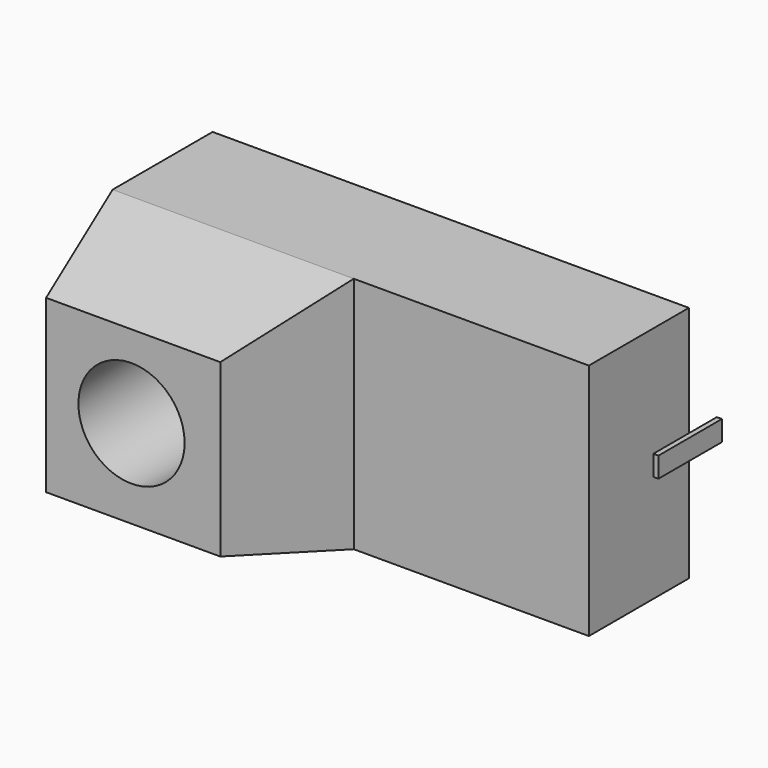
from build123d import *

# Parameters (mm, degrees)
F0_W     = 152.4
F0_H     = 76.2
F1_DEPTH = 40
F2_W     = 1.6280785203
F2_H     = 6.5123066306
F3_DEPTH = 25.4
F4_W     = 77.1738027223
F4_H     = 76.2
F5_DEPTH = 40
F5_TAPER = 15
F6_R     = 16.9902904257
F7_DEPTH = 40


with BuildPart() as f1:
    # F0 (on Front) → F1 (new body)
    with BuildSketch(Plane.XZ):
        with Locations((-0.9738027223, 38.1)):
            Rectangle(F0_W, F0_H)
    extrude(amount=F1_DEPTH)

    # F4 (on face) → F5 (join)
    with BuildSketch(Plane.XZ.offset(40)):
        with Locations((-38.5869013612, 38.1)):
            Rectangle(F4_W, F4_H)
    extrude(amount=F5_DEPTH, taper=F5_TAPER)

    # F6 (on face) → F7 (cut)
    with BuildSketch(Plane.XZ.offset(80)):
        with Locations((-39.1207635403, 38.9976799488)):
            Circle(F6_R)
    extrude(amount=-F7_DEPTH, mode=Mode.SUBTRACT)


with BuildPart() as f3:
    # F2 (on face) → F3 (new body)
    with BuildSketch(Plane.XZ.offset(40)):
        with Locations((116.9820092618, 71.7460699379)):
            Rectangle(F2_W, F2_H)
    extrude(amount=F3_DEPTH)


solid = Compound([f1.part, f3.part])
